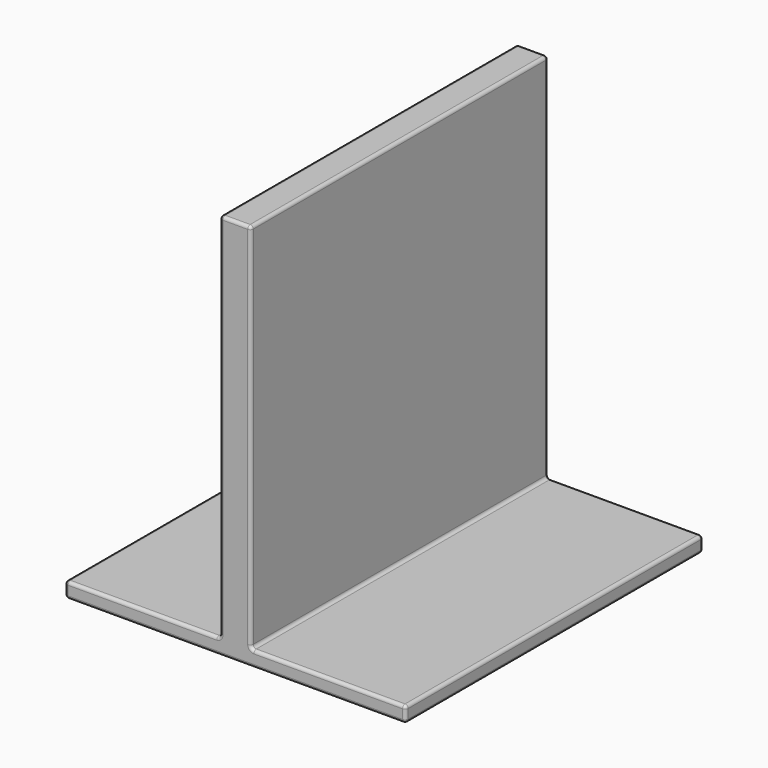
from build123d import *

# Parameters (mm, degrees)
F1_DEPTH = 152.4
F2_R     = 1.27


with BuildPart() as f1:
    # F0 (on Front) → F1 (new body)
    with BuildSketch(Plane.XZ):
        Polygon((-103.067632, -53.455183), (-103.067632, -59.805183), (36.632368, -59.805183), (36.632368, -53.455183), (-26.867632, -53.455183), (-26.867632, 98.944817), (-39.567632, 98.944817), (-39.567632, -53.455183), align=None)
    extrude(amount=-F1_DEPTH)

    # F2
    f2_edges = [f1.edges().sort_by_distance(p)[0] for p in [
        (36.632368, 76.2, -59.805183),
        (36.632368, 76.2, -53.455183),
        (36.632368, 0, -56.630183),
        (36.632368, 152.4, -56.630183),
        (-26.867632, 0, 22.744817),
        (-33.217632, 0, 98.944817),
        (-39.567632, 0, 22.744817),
        (-71.317632, 0, -53.455183),
        (-103.067632, 0, -56.630183),
        (-33.217632, 0, -59.805183),
        (4.882368, 0, -53.455183),
        (-26.867632, 76.2, -53.455183),
        (4.882368, 152.4, -53.455183),
        (-26.867632, 76.2, 98.944817),
        (-26.867632, 152.4, 22.744817),
        (-39.567632, 76.2, 98.944817),
        (-33.217632, 152.4, 98.944817),
        (-39.567632, 76.2, -53.455183),
        (-39.567632, 152.4, 22.744817),
        (-103.067632, 76.2, -53.455183),
        (-71.317632, 152.4, -53.455183),
        (-103.067632, 76.2, -59.805183),
        (-103.067632, 152.4, -56.630183),
        (-33.217632, 152.4, -59.805183),
    ]]
    fillet(f2_edges, radius=F2_R)


solid = f1.part
